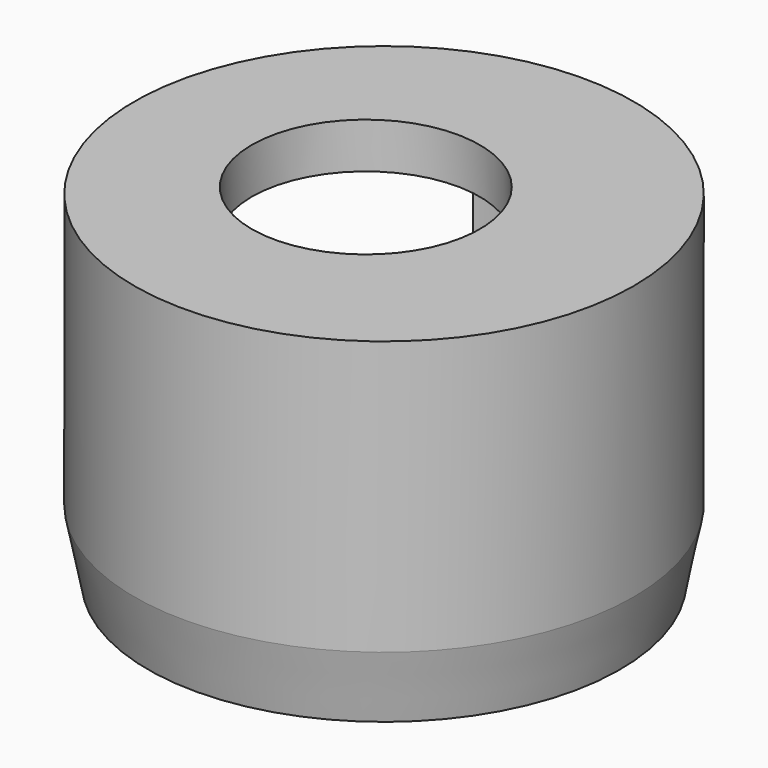
from build123d import *

# Parameters (mm, degrees)
F0_R     = 10.95
F1_DEPTH = 15
F3_DEPTH = 12
F4_DEPTH = 13
F6_D     = 10
F6_DEPTH = 10
F7_SIZE2 = 0.6
F7_SIZE  = 3


with BuildPart() as f1:
    # F0 (on Top) → F1 (new body)
    with BuildSketch(Plane.XY):
        Circle(F0_R)
    extrude(amount=F1_DEPTH)

    # F2 (on face) → F3 (cut)
    with BuildSketch(Plane(origin=(0, 0, 0), x_dir=(1, 0, 0), z_dir=(0, 0, -1))):
        with BuildLine():
            ThreePointArc((-2.024549, -7.399357), (-7.222314, -3.873485), (-7.916064, 2.368889))
            Line((-7.916064, 2.368889), (-10.690691, 2.368889))
            ThreePointArc((-10.690691, 2.368889), (-9.295049, -5.788313), (-2.590118, -10.639257))
            Line((-2.590118, -10.639257), (-2.024549, -7.399357))
        make_face()
    extrude(amount=-F3_DEPTH, mode=Mode.SUBTRACT)

    # F2 (on face) → F4 (cut)
    with BuildSketch(Plane(origin=(0, 0, 0), x_dir=(1, 0, 0), z_dir=(0, 0, -1))):
        with BuildLine():
            ThreePointArc((-2.024549, -7.399357), (4.051076, -5.719883), (6.7, 0))
            ThreePointArc((6.7, 0), (0.3999, 7.403394), (-7.916064, 2.368889))
            ThreePointArc((-7.916064, 2.368889), (-7.222314, -3.873485), (-2.024549, -7.399357))
        make_face()
    extrude(amount=-F4_DEPTH, mode=Mode.SUBTRACT)

    # F6
    with Locations(Plane(origin=(0, 0, 13), x_dir=(1, 0, 0), z_dir=(0, 0, -1))):
        with Locations((-0.8, 0)):
            Hole(F6_D / 2, depth=F6_DEPTH)

    # F7
    f7_edges = [f1.edges().sort_by_distance(p)[0] for p in [
        (6.765379, 8.610003, 0),
        (1.19152, -10.88498, 0),
    ]]
    chamfer(f7_edges, length=F7_SIZE, length2=F7_SIZE2)


solid = f1.part
